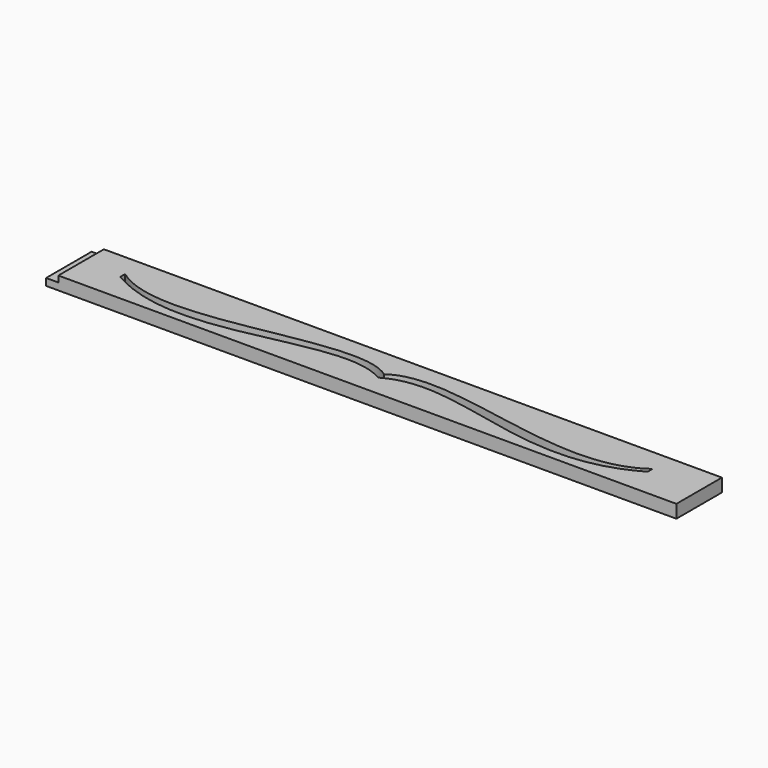
from build123d import *

# Parameters (mm, degrees)
F0_W     = 182.88
F0_H     = 16.51
F1_DEPTH = 3.81
F2_W     = 3.556
F2_H     = 16.51
F3_DEPTH = 1.778


with BuildPart() as f1:
    # F0 (on Top) → F1 (new body)
    with BuildSketch(Plane.XY):
        Rectangle(F0_W, F0_H)
        with BuildLine():
            add(Edge.make_bspline(
                [(0, -2.074842), (17.909447, 8.255), (49.116872, -16.01937), (76.507911, 0)],
                knots=[0, 0, 0, 0, 76.53604, 76.53604, 76.53604, 76.53604], degree=3))
            add(Edge.make_bspline(
                [(0, -2.074842), (-17.909447, 8.255), (-49.116872, -16.01937), (-76.507911, 0)],
                knots=[0, 0, 0, 0, 76.53604, 76.53604, 76.53604, 76.53604], degree=3))
            Line((-76.507911, 0), (-76.507911, 1.743303))
            add(Edge.make_bspline(
                [(-76.507911, 1.743303), (-57.236858, -12.49124), (-14.158216, 10.500169), (0, 0)],
                knots=[0, 0, 0, 0, 76.52777, 76.52777, 76.52777, 76.52777], degree=3))
            add(Edge.make_bspline(
                [(76.507911, 1.743303), (57.236858, -12.49124), (14.158216, 10.500169), (0, 0)],
                knots=[0, 0, 0, 0, 76.52777, 76.52777, 76.52777, 76.52777], degree=3))
            Line((76.507911, 1.743303), (76.507911, 0))
        make_face(mode=Mode.SUBTRACT)
    extrude(amount=F1_DEPTH)

    # F2 (on face) → F3 (cut)
    with BuildSketch(Plane.XY.offset(3.81)):
        with Locations((-89.662, 0)):
            Rectangle(F2_W, F2_H)
    extrude(amount=-F3_DEPTH, mode=Mode.SUBTRACT)


solid = f1.part
